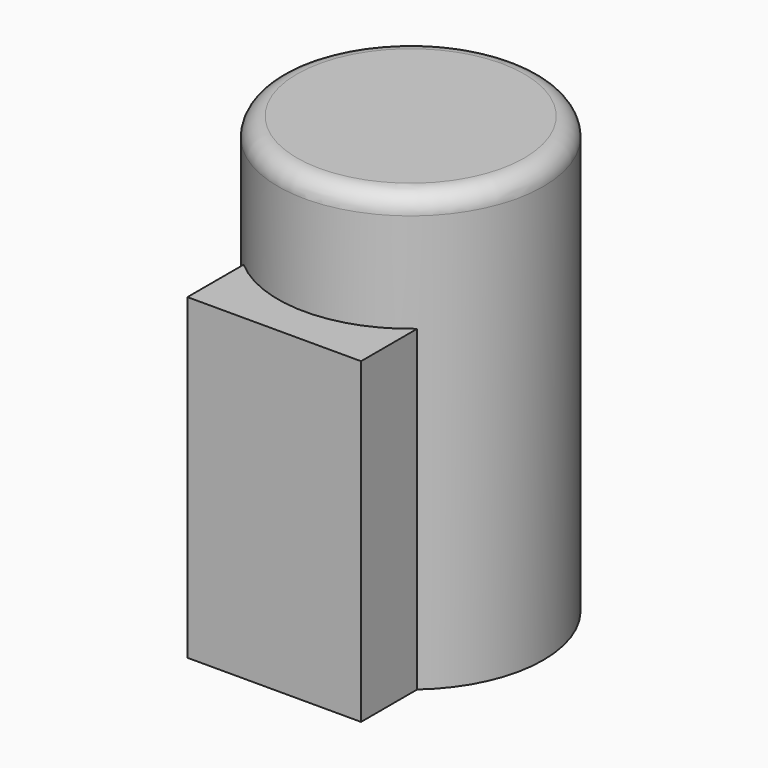
from build123d import *

# Parameters (mm, degrees)
F0_R     = 35
F1_DEPTH = 115
F2_R     = 5
F4_DEPTH = 45


with BuildPart() as f1:
    # F0 (on Top) → F1 (new body)
    with BuildSketch(Plane.XY):
        Circle(F0_R)
    extrude(amount=F1_DEPTH)

    # F2
    f2_edges = [f1.edges().sort_by_distance(p)[0] for p in [
        (-35, 0, 115),
    ]]
    fillet(f2_edges, radius=F2_R)

    # F3 (on Front) → F4 (join)
    with BuildSketch(Plane.XZ):
        Polygon((22.900352, 83.783798), (-22.900352, 83.783798), (-22.900352, 28.148592), (-22.900352, 0), (22.900352, 0), (22.900352, 28.148592), align=None)
    extrude(amount=F4_DEPTH)


solid = f1.part
